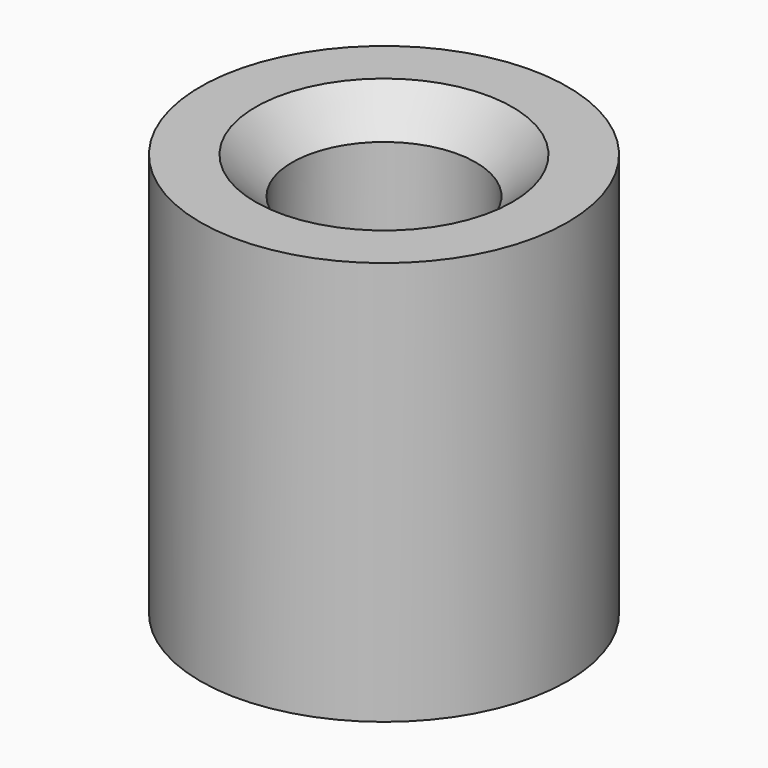
from build123d import *

# Parameters (mm, degrees)
F2_SIZE = 1
F3_SIZE = 0.5


with BuildPart() as f1:
    # F0 (on Front) → F1 (revolve)
    with BuildSketch(Plane.XZ):
        Polygon((4, 4), (4, 0), (5, 0), (5, 11), (2.5, 11), (2.5, 6), (0, 6), (0, 4), align=None)
    revolve(axis=Axis((0, 0, 2), (0, 0, 1)))

    # F2
    f2_edges = [f1.edges().sort_by_distance(p)[0] for p in [
        (-2.5, 0, 11),
    ]]
    chamfer(f2_edges, length=F2_SIZE)

    # F3
    f3_edges = [f1.edges().sort_by_distance(p)[0] for p in [
        (-4, 0, 0),
    ]]
    chamfer(f3_edges, length=F3_SIZE)


solid = f1.part
